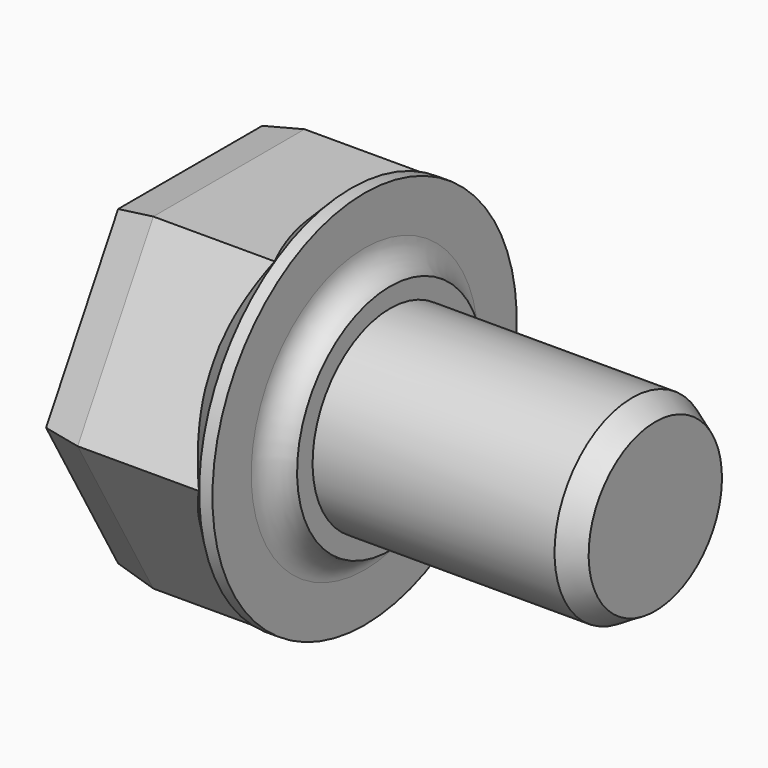
from build123d import *

# Parameters (mm, degrees)
F1_DEPTH = 9
F4_SIZE2 = 2
F4_SIZE  = 0.4
F5_SIZE2 = 0.7
F5_SIZE  = 1.2


with BuildPart() as f1:
    # F0 (on Right) → F1 (new body)
    with BuildSketch(Plane.YZ):
        Polygon((4.8786097747, 8.45), (-4.8786097747, 8.45), (-9.7572195493, 0), (-4.8786097747, -8.45), (4.8786097747, -8.45), (9.7572195493, 0), align=None)
    extrude(amount=F1_DEPTH)

    # F2 (on Front) → F3 (revolve)
    with BuildSketch(Plane.XZ):
        with BuildLine():
            Line((9, 7.315), (9, 0))
            Line((9, 0), (24, 0))
            Line((24, 0), (24, 5))
            Line((24, 5), (10.315, 5))
            Line((10.315, 5), (10.315, 6))
            ThreePointArc((10.315, 6), (9.3851545827, 6.3851545827), (9, 7.315))
        make_face()
        with BuildLine():
            Line((9, 7.315), (9, 0))
            Line((9, 0), (24, 0))
            Line((24, 0), (24, 5))
            Line((24, 5), (10.315, 5))
            Line((10.315, 5), (10.315, 6))
            ThreePointArc((10.315, 6), (9.3851545827, 6.3851545827), (9, 7.315))
        make_face()
        Polygon((7, 8.5), (7, 0), (9, 0), (9, 7.315), (9, 9.815), (8.315, 9.815), align=None)
    revolve(axis=Axis((17.0378703874, 0, 0), (1, 0, 0)))

    # F4
    f4_edges = [f1.edges().sort_by_distance(p)[0] for p in [
        (0, 0, 8.45),
        (0, -7.317915, 4.225),
        (0, -7.317915, -4.225),
        (0, 0, -8.45),
        (0, 7.317915, -4.225),
        (0, 7.317915, 4.225),
    ]]
    f4_side = f1.faces().sort_by_distance((0, 0, 0))[0]
    chamfer(f4_edges, length=F4_SIZE, length2=F4_SIZE2, reference=f4_side)

    # F5
    f5_edges = [f1.edges().sort_by_distance(p)[0] for p in [
        (24, 0, -5),
    ]]
    f5_side = f1.faces().sort_by_distance((17.1575, 0, -5))[0]
    chamfer(f5_edges, length=F5_SIZE, length2=F5_SIZE2, reference=f5_side)


solid = f1.part
